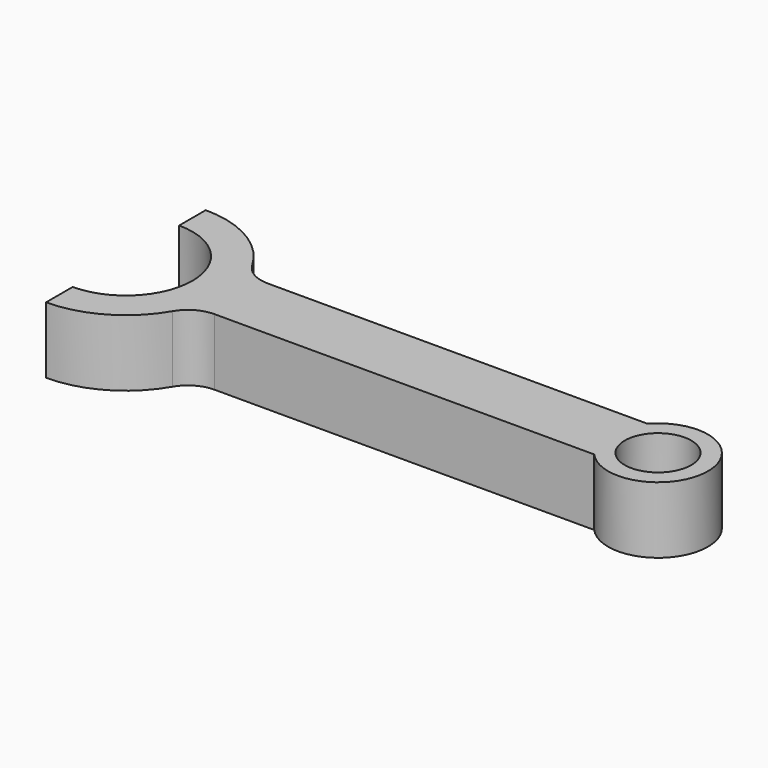
from build123d import *

# Parameters (mm, degrees)
F0_R     = 5
F1_DEPTH = 10


with BuildPart() as f1:
    # F0 (on Top) → F1 (new body)
    with BuildSketch(Plane.XY):
        with BuildLine():
            ThreePointArc((-31.464937, 10), (-21.464937, 0), (-31.464937, -10))
            Line((-31.464937, -10), (-31.464937, -15))
            ThreePointArc((-31.464937, -15), (-23.964937, -12.990381), (-18.474556, -7.5))
            ThreePointArc((-18.474556, -7.5), (-16.644429, -5.669873), (-14.144429, -5))
            Line((-14.144429, -5), (42.944893, -5))
            ThreePointArc((42.944893, -5), (56.035063, 0), (42.944893, 5))
            Line((42.944893, 5), (-14.144429, 5))
            ThreePointArc((-14.144429, 5), (-16.644429, 5.669873), (-18.474556, 7.5))
            ThreePointArc((-18.474556, 7.5), (-23.964937, 12.990381), (-31.464937, 15))
            Line((-31.464937, 15), (-31.464937, 10))
        make_face()
        with Locations((48.535063, 0)):
            Circle(F0_R, mode=Mode.SUBTRACT)
    extrude(amount=F1_DEPTH)


solid = f1.part
